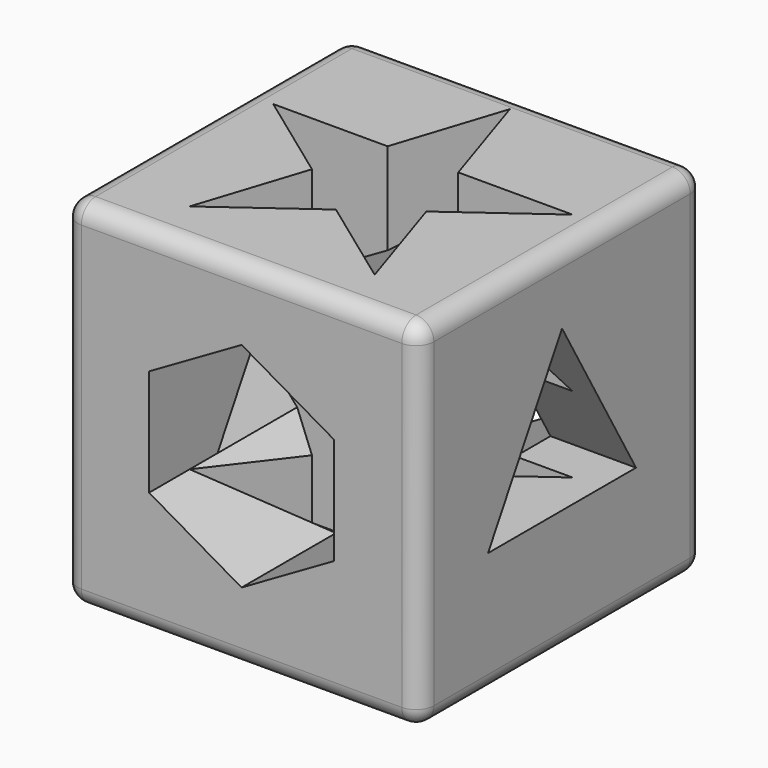
from build123d import *

# Parameters (mm, degrees)
BOX_W           = 20
BOX_H           = 20
BOX_DEPTH       = 20
FILLET_R        = 1
POCKET_DEPTH    = 20.001
POCKET001_DEPTH = 20.001
POCKET002_DEPTH = 20.001


with BuildPart() as part:
    # Box → Box (new body)
    with BuildSketch(Plane.XY):
        with Locations((10, 10)):
            Rectangle(BOX_W, BOX_H)
    extrude(amount=BOX_DEPTH)

    # Fillet
    fillet_edges = [part.edges().sort_by_distance(p)[0] for p in [
        (0, 10, 0),
        (10, 20, 0),
        (20, 10, 0),
        (10, 0, 0),
        (0, 0, 10),
        (0, 10, 20),
        (0, 20, 10),
        (20, 0, 10),
        (10, 0, 20),
        (20, 10, 20),
        (20, 20, 10),
        (10, 20, 20),
    ]]
    fillet(fillet_edges, radius=FILLET_R)

    # Sketch (on Face9 of Fillet) → Pocket (cut, through all)
    with BuildSketch(Plane.XZ):
        Polygon((15.196152, 7), (15.196152, 13), (10, 16), (4.803848, 13), (4.803848, 7), (10, 4), align=None)
    extrude(amount=-POCKET_DEPTH, mode=Mode.SUBTRACT)

    # Sketch001 (on Face30 of Pocket) → Pocket001 (cut, through all)
    with BuildSketch(Plane.YZ.offset(20)):
        Polygon((15.196152, 7), (10, 16), (4.803848, 7), align=None)
    extrude(amount=-POCKET001_DEPTH, mode=Mode.SUBTRACT)

    # Sketch002 (on Face16 of Pocket001) → Pocket002 (cut, through all)
    with BuildSketch(Plane.XY.offset(20)):
        Polygon((13.211399, 8.956553), (18.407551, 12.731779), (11.984754, 12.731779), (10, 18.840223), (8.015246, 12.731779), (1.592449, 12.731779), (6.788601, 8.956553), (4.803848, 2.84811), (10, 6.623335), (15.196152, 2.84811), align=None)
    extrude(amount=-POCKET002_DEPTH, mode=Mode.SUBTRACT)


solid = part.part
